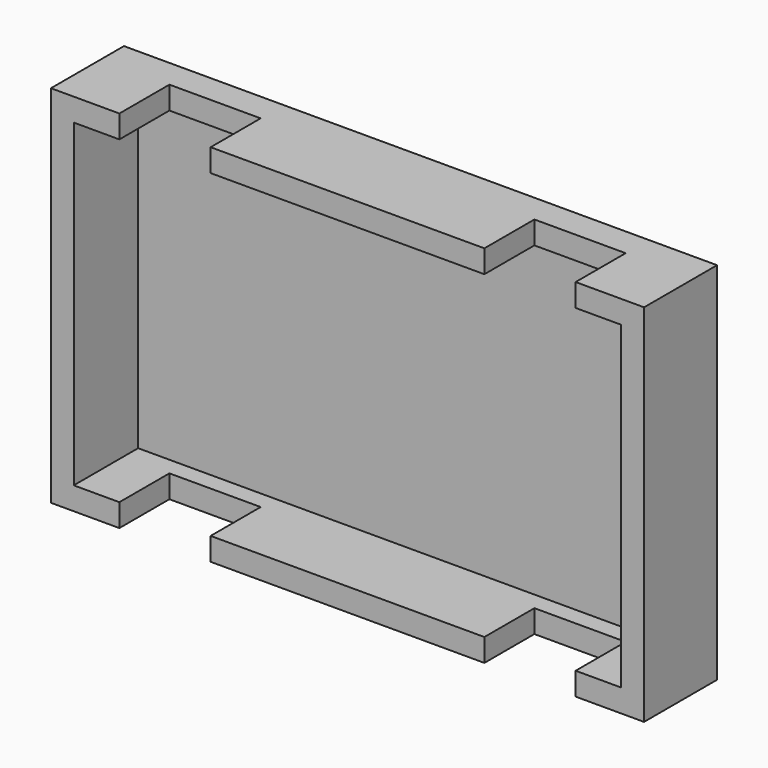
from build123d import *

# Parameters (mm, degrees)
F0_W     = 6.35
F0_H     = 88.9
F1_DEPTH = 3
F0_H_2   = 6.35
F0_W_2   = 12.7
F0_W_3   = 76.2
F2_DEPTH = 25.4
F0_W_4   = 25.4
F3_DEPTH = 8


with BuildPart() as f1:
    # F0 (on Front) → F1 (new body)
    with BuildSketch(Plane.XZ):
        with Locations((-59.3524831653, 10.6868692262)):
            Rectangle(F0_W, F0_H)
        Polygon((-43.4774831653, 55.1368692262), (-56.1774831653, 55.1368692262), (-56.1774831653, -33.7631307738), (-43.4774831653, -33.7631307738), (-18.0774831653, -33.7631307738), (58.1225168347, -33.7631307738), (83.5225168347, -33.7631307738), (96.2225168347, -33.7631307738), (96.2225168347, 55.1368692262), (83.5225168347, 55.1368692262), (58.1225168347, 55.1368692262), (-18.0774831653, 55.1368692262), align=None)
    extrude(amount=F1_DEPTH)

    # F0 (on Front) → F2 (join)
    with BuildSketch(Plane.XZ):
        with Locations((-59.3524831653, 58.3118692262)):
            Rectangle(F0_W, F0_H_2)
        with Locations((99.3975168347, 58.3118692262)):
            Rectangle(F0_W, F0_H_2)
        with Locations((-59.3524831653, -36.9381307738)):
            Rectangle(F0_W, F0_H_2)
        with Locations((99.3975168347, -36.9381307738)):
            Rectangle(F0_W, F0_H_2)
        with Locations((-49.8274831653, 58.3118692262)):
            Rectangle(F0_W_2, F0_H_2)
        with Locations((20.0225168347, 58.3118692262)):
            Rectangle(F0_W_3, F0_H_2)
        with Locations((89.8725168347, 58.3118692262)):
            Rectangle(F0_W_2, F0_H_2)
        with Locations((-49.8274831653, -36.9381307738)):
            Rectangle(F0_W_2, F0_H_2)
        with Locations((20.0225168347, -36.9381307738)):
            Rectangle(F0_W_3, F0_H_2)
        with Locations((89.8725168347, -36.9381307738)):
            Rectangle(F0_W_2, F0_H_2)
        with Locations((99.3975168347, 10.6868692262)):
            Rectangle(F0_W, F0_H)
        with Locations((-59.3524831653, 10.6868692262)):
            Rectangle(F0_W, F0_H)
    extrude(amount=F2_DEPTH)

    # F0 (on Front) → F3 (join)
    with BuildSketch(Plane.XZ):
        with Locations((-30.7774831653, -36.9381307738)):
            Rectangle(F0_W_4, F0_H_2)
        with Locations((-30.7774831653, 58.3118692262)):
            Rectangle(F0_W_4, F0_H_2)
        with Locations((70.8225168347, 58.3118692262)):
            Rectangle(F0_W_4, F0_H_2)
        with Locations((70.8225168347, -36.9381307738)):
            Rectangle(F0_W_4, F0_H_2)
    extrude(amount=F3_DEPTH)


solid = f1.part
